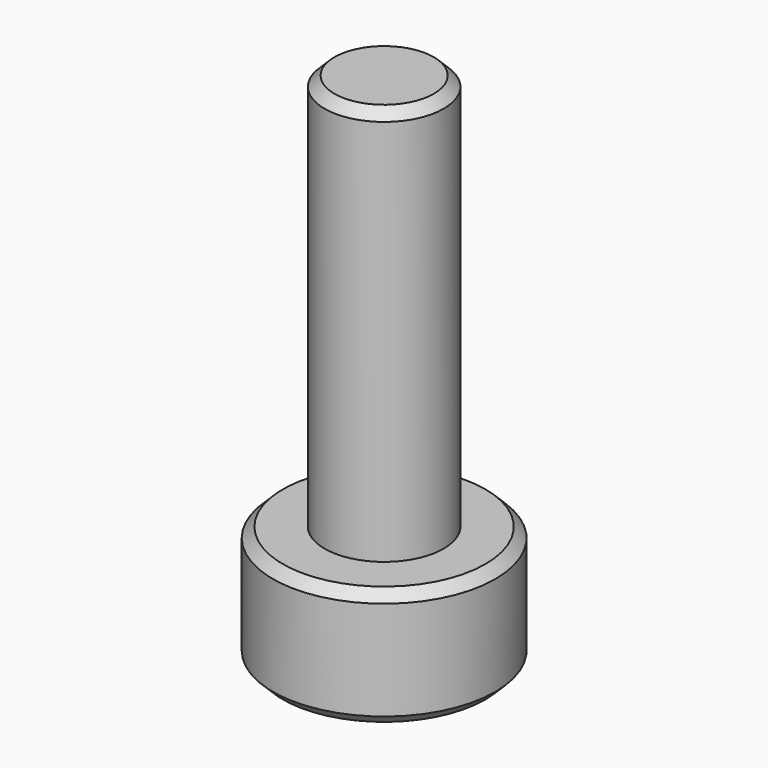
from build123d import *

# Parameters (mm, degrees)
F0_R     = 1.5
F1_DEPTH = 10
F2_R     = 2.8
F3_DEPTH = 3
F5_DEPTH = 1.5
F6_SIZE  = 0.25


with BuildPart() as f1:
    # F0 (on Top) → F1 (new body)
    with BuildSketch(Plane.XY):
        Circle(F0_R)
    extrude(amount=F1_DEPTH)

    # F2 (on Top) → F3 (join)
    with BuildSketch(Plane.XY):
        Circle(F2_R)
    extrude(amount=-F3_DEPTH)

    # F4 (on face) → F5 (cut)
    with BuildSketch(Plane(origin=(0, 0, -3), x_dir=(1, 0, 0), z_dir=(0, 0, -1))):
        Polygon((0.446582, -1.372552), (1.411956, -0.299524), (0.965373, 1.073027), (-0.446582, 1.372552), (-1.411956, 0.299524), (-0.965373, -1.073027), align=None)
    extrude(amount=-F5_DEPTH, mode=Mode.SUBTRACT)

    # F6
    f6_edges = [f1.edges().sort_by_distance(p)[0] for p in [
        (-2.8, 0, -3),
        (-1.5, 0, 10),
        (-2.8, 0, 0),
    ]]
    chamfer(f6_edges, length=F6_SIZE)


solid = f1.part
